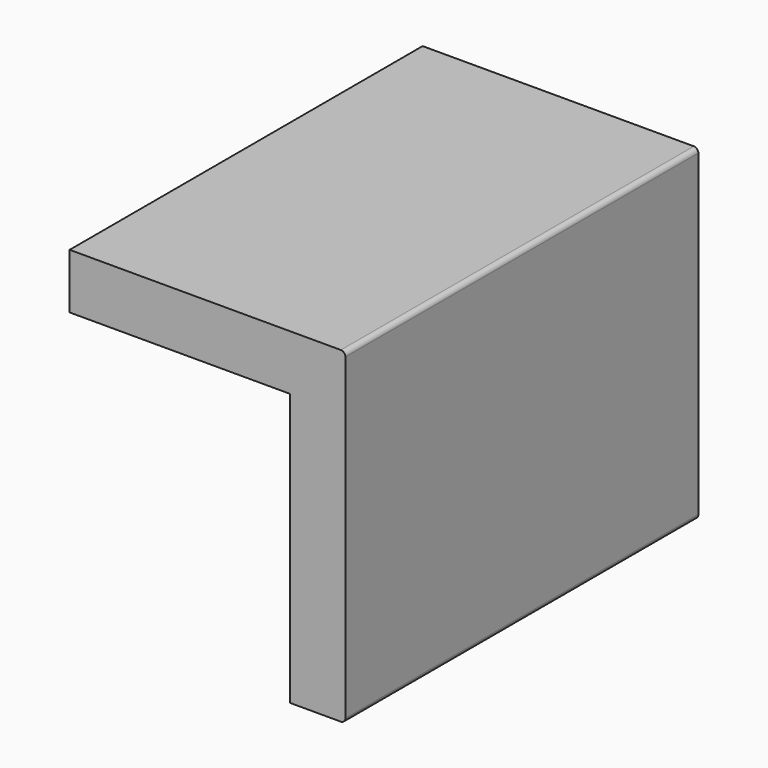
from build123d import *

# Parameters (mm, degrees)
F0_W     = 76.2
F0_H     = 19.05
F1_DEPTH = 152.4


with BuildPart() as f1:
    # F0 (on Front) → F1 (new body)
    with BuildSketch(Plane.XZ):
        with BuildLine():
            Line((46.0375, 60.325), (28.575, 60.325))
            Line((28.575, 60.325), (28.575, 41.275))
            Line((28.575, 41.275), (28.575, -52.705))
            Line((28.575, -52.705), (46.0375, -52.705))
            ThreePointArc((46.0375, -52.705), (47.160032, -52.240032), (47.625, -51.1175))
            Line((47.625, -51.1175), (47.625, 58.7375))
            ThreePointArc((47.625, 58.7375), (47.160032, 59.860032), (46.0375, 60.325))
        make_face()
        with Locations((-9.525, 50.8)):
            Rectangle(F0_W, F0_H)
    extrude(amount=F1_DEPTH)


solid = f1.part
